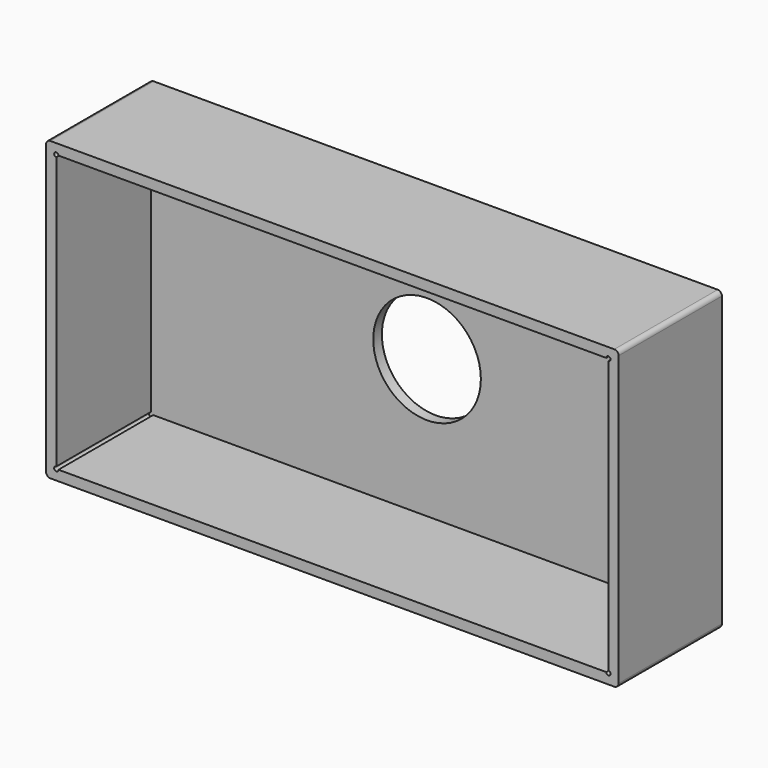
from build123d import *

# Parameters (mm, degrees)
SKETCH_W        = 266
SKETCH_H        = 138
PAD_DEPTH       = 60
SKETCH001_W     = 256.5
SKETCH001_H     = 128.5
POCKET_DEPTH    = 55
FILLET_R        = 2
SKETCH002_R     = 25
POCKET001_DEPTH = 60.001
SKETCH003_R     = 1
POCKET002_DEPTH = 55


with BuildPart() as part:
    # Sketch → Pad (new body)
    with BuildSketch(Plane.XZ):
        Rectangle(SKETCH_W, SKETCH_H)
    extrude(amount=PAD_DEPTH)

    # Sketch001 (on Face6 of Pad) → Pocket (cut)
    with BuildSketch(Plane.XZ.offset(60)):
        Rectangle(SKETCH001_W, SKETCH001_H)
    extrude(amount=-POCKET_DEPTH, mode=Mode.SUBTRACT)

    # Fillet
    fillet_edges = [part.edges().sort_by_distance(p)[0] for p in [
        (-133, -30, 69),
        (133, -30, 69),
        (-133, -30, -69),
        (133, -30, -69),
    ]]
    fillet(fillet_edges, radius=FILLET_R)

    # Sketch002 (on Face2 of Fillet) → Pocket001 (cut, through all)
    with BuildSketch(Plane(origin=(0, 0, 0), x_dir=(1, 0, 0), z_dir=(0, 1, 0))):
        Circle(SKETCH002_R)
    extrude(amount=-POCKET001_DEPTH, mode=Mode.SUBTRACT)

    # Sketch003 (on Face5 of Pocket) → Pocket002 (cut)
    with BuildSketch(Plane.XZ.offset(60)):
        with Locations((-128.25, 64.25)):
            Circle(SKETCH003_R)
        with Locations((128.25, 64.25)):
            Circle(SKETCH003_R)
        with Locations((128.25, -64.25)):
            Circle(SKETCH003_R)
        with Locations((-128.25, -64.25)):
            Circle(SKETCH003_R)
    extrude(amount=-POCKET002_DEPTH, mode=Mode.SUBTRACT)


solid = part.part
